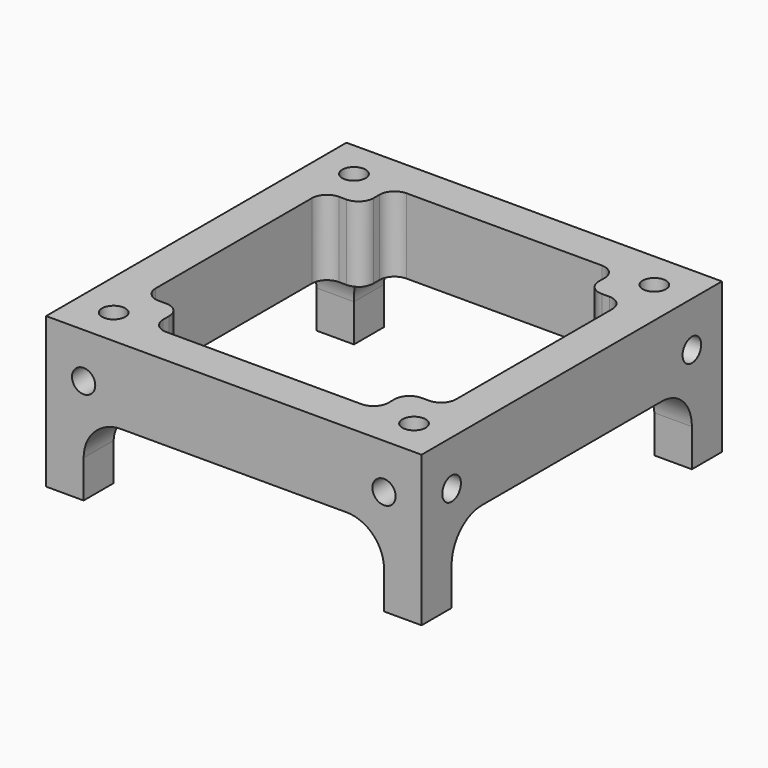
from build123d import *

# Parameters (mm, degrees)
SKETCH100_W             = 50
SKETCH100_H             = 50
PAD017_DEPTH            = 20
POCKET084_DEPTH         = 20.001
POCKET085_DEPTH         = 50.001
POCKET086_DEPTH         = 50.001
SKETCH104_R             = 1.55
POCKET087_DEPTH         = 5
SKETCH105_R             = 1.55
POCKET088_DEPTH         = 3
SKETCH106_R             = 1.55
POCKET089_DEPTH         = 3
BODY018_PLACEMENT_ANGLE = 90


with BuildPart() as part:
    # Sketch100 → Pad017 (new body)
    with BuildSketch(Plane.XY):
        Rectangle(SKETCH100_W, SKETCH100_H)
    extrude(amount=PAD017_DEPTH)

    # Sketch101 (on Face6 of Pad017) → Pocket084 (cut, through all)
    with BuildSketch(Plane.XY.offset(20)):
        with BuildLine():
            Line((-18, 15), (-17, 15))
            ThreePointArc((-17, 15), (-15.585786, 15.585786), (-15, 17))
            Line((-15, 17), (-15, 18))
            ThreePointArc((-13, 20), (-14.414214, 19.414214), (-15, 18))
            Line((-13, 20), (13, 20))
            ThreePointArc((15, 18), (14.414214, 19.414214), (13, 20))
            Line((15, 18), (15, 17))
            ThreePointArc((15, 17), (15.585786, 15.585786), (17, 15))
            Line((17, 15), (18, 15))
            ThreePointArc((20, 13), (19.414214, 14.414214), (18, 15))
            Line((20, 13), (20, -13))
            ThreePointArc((18, -15), (19.414214, -14.414214), (20, -13))
            Line((18, -15), (17, -15))
            ThreePointArc((17, -15), (15.585786, -15.585786), (15, -17))
            Line((15, -17), (15, -18))
            ThreePointArc((13, -20), (14.414214, -19.414214), (15, -18))
            Line((13, -20), (-13, -20))
            ThreePointArc((-15, -18), (-14.414214, -19.414214), (-13, -20))
            Line((-15, -18), (-15, -17))
            ThreePointArc((-15, -17), (-15.585786, -15.585786), (-17, -15))
            Line((-17, -15), (-18, -15))
            ThreePointArc((-20, -13), (-19.414214, -14.414214), (-18, -15))
            Line((-20, -13), (-20, 13))
            ThreePointArc((-18, 15), (-19.414214, 14.414214), (-20, 13))
        make_face()
    extrude(amount=-POCKET084_DEPTH, mode=Mode.SUBTRACT)

    # Sketch102 (on Face3 of Pocket084) → Pocket085 (cut, through all)
    with BuildSketch(Plane.YZ.offset(25)):
        with BuildLine():
            Line((-15, 10), (15, 10))
            ThreePointArc((20, 5), (18.535534, 8.535534), (15, 10))
            Line((20, 5), (20, 0))
            Line((20, 0), (-20, 0))
            Line((-20, 0), (-20, 5))
            ThreePointArc((-15, 10), (-18.535534, 8.535534), (-20, 5))
        make_face()
    extrude(amount=-POCKET085_DEPTH, mode=Mode.SUBTRACT)

    # Sketch103 (on Face6 of Pocket084) → Pocket086 (cut, through all)
    with BuildSketch(Plane.XZ.offset(25)):
        with BuildLine():
            Line((-15, 10), (15, 10))
            ThreePointArc((20, 5), (18.535534, 8.535534), (15, 10))
            Line((20, 5), (20, 0))
            Line((20, 0), (-20, 0))
            Line((-20, 0), (-20, 5))
            ThreePointArc((-15, 10), (-18.535534, 8.535534), (-20, 5))
        make_face()
    extrude(amount=-POCKET086_DEPTH, mode=Mode.SUBTRACT)

    # Sketch104 → Pocket087 (cut)
    with BuildSketch(Plane.XY.offset(20)):
        with Locations((-20, 20)):
            Circle(SKETCH104_R)
        with Locations((20, 20)):
            Circle(SKETCH104_R)
        with Locations((20, -20)):
            Circle(SKETCH104_R)
        with Locations((-20, -20)):
            Circle(SKETCH104_R)
    extrude(amount=-POCKET087_DEPTH, mode=Mode.SUBTRACT)

    # Sketch105 (on Face27 of Pocket087) → Pocket088 (cut)
    with BuildSketch(Plane.XZ.offset(25)):
        with Locations((-20, 14)):
            Circle(SKETCH105_R)
        with Locations((20, 14)):
            Circle(SKETCH105_R)
    extrude(amount=-POCKET088_DEPTH, mode=Mode.SUBTRACT)

    # Sketch106 (on Face11 of Pocket088) → Pocket089 (cut)
    with BuildSketch(Plane(origin=(-25, 0, 0), x_dir=(0, -1, 0), z_dir=(-1, 0, 0))):
        with Locations((-20, 14)):
            Circle(SKETCH106_R)
        with Locations((20, 14)):
            Circle(SKETCH106_R)
    extrude(amount=-POCKET089_DEPTH, mode=Mode.SUBTRACT)


with BuildPart() as part_1:
    # Body018 placement: moved
    add(part.part.moved(Location((145, 25, 0))).rotate(Axis((145, 25, 0), (0, 0, 1)), BODY018_PLACEMENT_ANGLE))


solid = part_1.part
